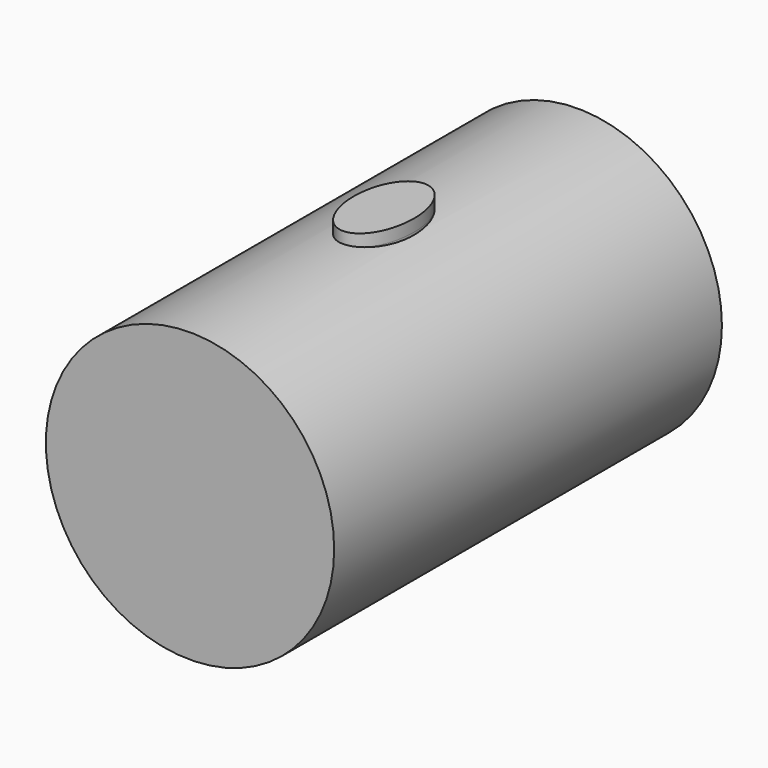
from build123d import *

# Parameters (mm, degrees)
F0_R     = 75.5472350888
F1_DEPTH = 127
F4_DEPTH = 6.35


with BuildPart() as f1:
    # F0 (on Front) → F1 (new body, symmetric)
    with BuildSketch(Plane.XZ):
        Circle(F0_R)
    extrude(amount=F1_DEPTH, both=True)

    # F3 (on offset) → F4 (join, symmetric)
    with BuildSketch(Plane.XY.offset(75.184)):
        with BuildLine():
            add(Edge.make_bspline(
                [(0, -26.8084928393), (27.3186761033, -26.8084928393), (13.6593380516, 13.4042464197), (0, 53.6169856787), (-13.6593380516, 13.4042464197), (-27.3186761033, -26.8084928393), (0, -26.8084928393)],
                knots=[0, 0, 0, 2.0943951024, 2.0943951024, 4.1887902048, 4.1887902048, 6.2831853072, 6.2831853072, 6.2831853072], degree=2, weights=[1, 0.5, 1, 0.5, 1, 0.5, 1]))
        make_face()
    extrude(amount=F4_DEPTH, both=True)


solid = f1.part
